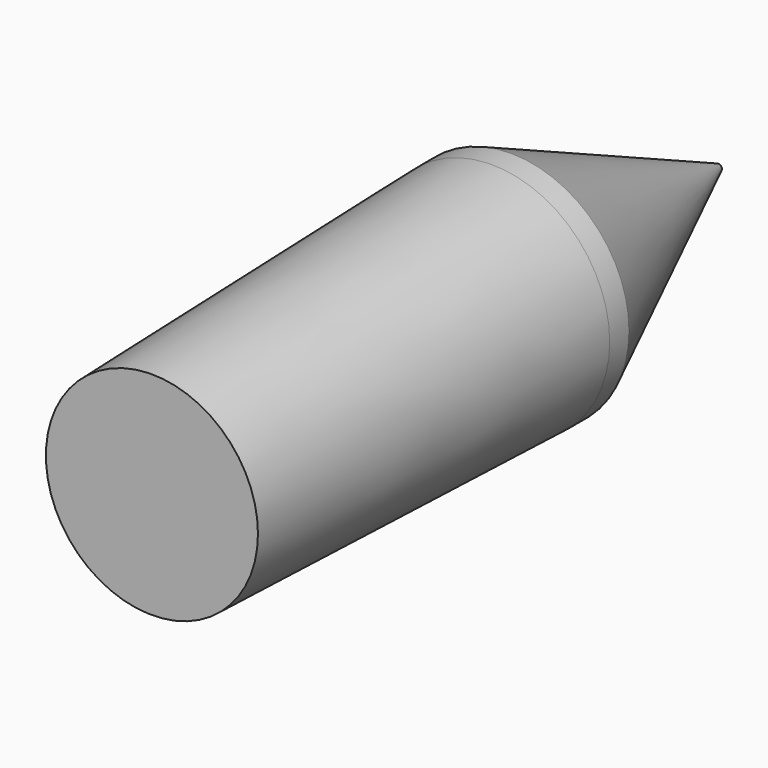
from build123d import *

# Parameters (mm, degrees)
F1_R      = 42.291
F2_R      = 38.0365
F4_DEPTH  = 8.636
F4_FACE_R = 42.291
F6_R      = 1.27


with BuildPart() as f3:
    # F1 (on Front) → F3 section 0
    with BuildSketch(Plane.XZ):
        Circle(F1_R)
    # F2 (on offset) → F3 section 1
    with BuildSketch(Plane.XZ.offset(152.4)):
        Circle(F2_R)
    loft()

    # F4 (add): a face of the model
    f4_faces = [f3.faces().sort_by_distance(p)[0] for p in [
        (0, 0, 0),
    ]]
    extrude(f4_faces, amount=F4_DEPTH)

    # F4_face (on face) → F7 section 0
    with BuildSketch(Plane(origin=(0, 8.636, 0), x_dir=(-1, 0, 0), z_dir=(0, 1, 0))):
        Circle(F4_FACE_R)
    # F6 (on offset) → F7 section 1
    with BuildSketch(Plane.XZ.offset(-101.6)):
        Circle(F6_R)
    loft()


solid = f3.part
